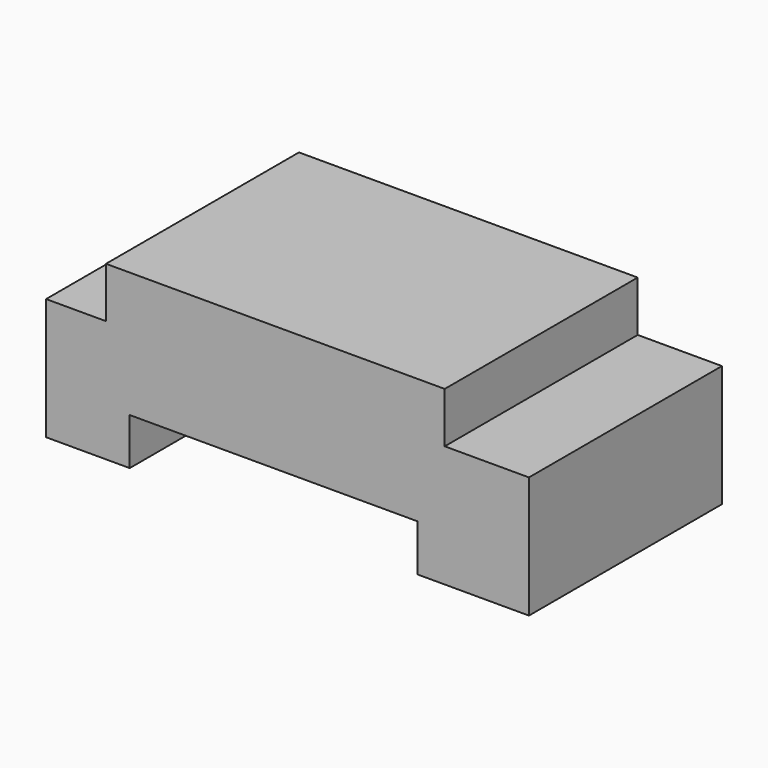
from build123d import *

# Parameters (mm, degrees)
F1_DEPTH = 25.4
F2_W     = 30.321582
F2_H     = 4.924042
F3_DEPTH = 25.4


with BuildPart() as f1:
    # F0 (on Front) → F1 (new body)
    with BuildSketch(Plane.XZ):
        Polygon((-50.843794, 0), (0, 0), (0, 12.809483), (-8.868104, 12.809483), (-8.868104, 18.130345), (-44.537585, 18.130345), (-44.537585, 12.809483), (-50.843794, 12.809483), align=None)
    extrude(amount=F1_DEPTH)

    # F2 (on face) → F3 (cut)
    with BuildSketch(Plane.XZ.offset(25.4)):
        with Locations((-26.877471, 2.462021)):
            Rectangle(F2_W, F2_H)
    extrude(amount=-F3_DEPTH, mode=Mode.SUBTRACT)


solid = f1.part
